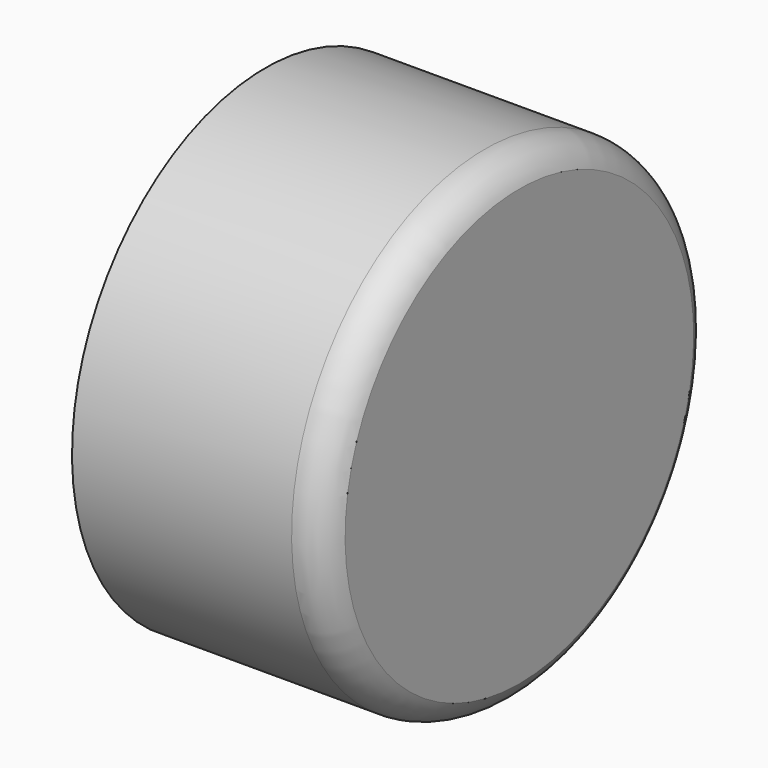
from build123d import *


with BuildPart() as f1:
    # F0 (on Front) → F1 (revolve)
    with BuildSketch(Plane.XZ):
        with BuildLine():
            Line((-51.01523, 28.884935), (-424.153769, -48.112668))
            Line((-424.153769, -48.112668), (-424.153769, -429.112668))
            Line((-424.153769, -429.112668), (337.846231, -429.112668))
            ThreePointArc((337.846231, -429.112668), (410.449368, -406.313361), (456.98477, -346.1014))
            Line((456.98477, -346.1014), (456.98477, 409.884935))
            Line((456.98477, 409.884935), (329.98477, 409.884935))
            Line((329.98477, 409.884935), (329.98477, 155.884935))
            ThreePointArc((329.98477, 155.884935), (292.787331, 66.082374), (202.98477, 28.884935))
            Line((202.98477, 28.884935), (-51.01523, 28.884935))
        make_face()
    revolve(axis=Axis((393.48477, 0, 409.884935), (-1, 0, 0)))


solid = f1.part
